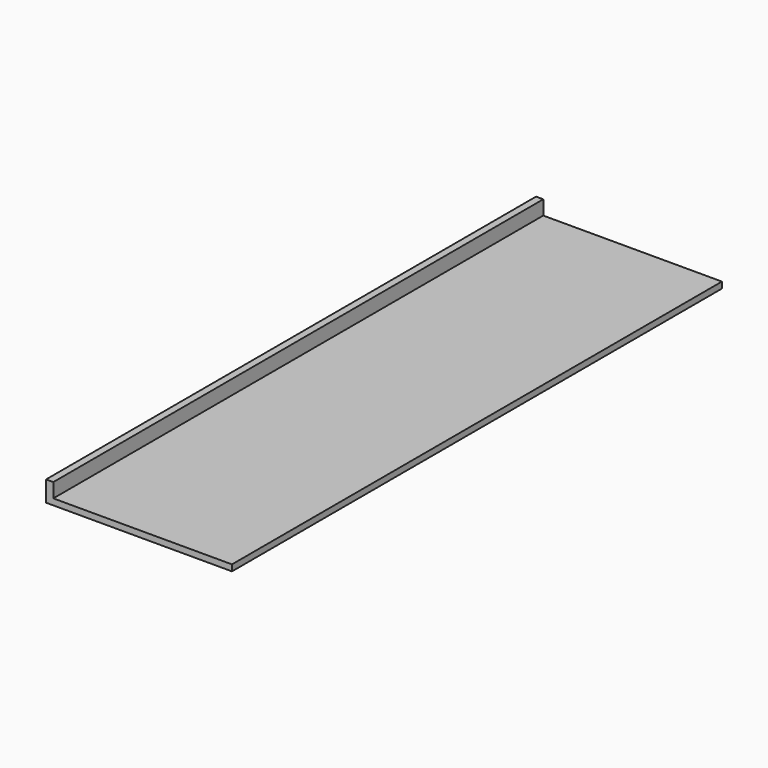
from build123d import *

# Parameters (mm, degrees)
F0_W     = 45.982973
F0_H     = 151.499167
F1_DEPTH = 5.08
F2_W     = 44.195575
F2_H     = 3.548096
F3_DEPTH = 151.500167


with BuildPart() as f1:
    # F0 (on Top) → F1 (new body)
    with BuildSketch(Plane.XY):
        with Locations((-32.180904, -13.99663)):
            Rectangle(F0_W, F0_H)
    extrude(amount=F1_DEPTH)

    # F2 (on face) → F3 (cut, through all)
    with BuildSketch(Plane.XZ.offset(89.746214)):
        with Locations((-31.287205, 3.305952)):
            Rectangle(F2_W, F2_H)
    extrude(amount=-F3_DEPTH, mode=Mode.SUBTRACT)


solid = f1.part
